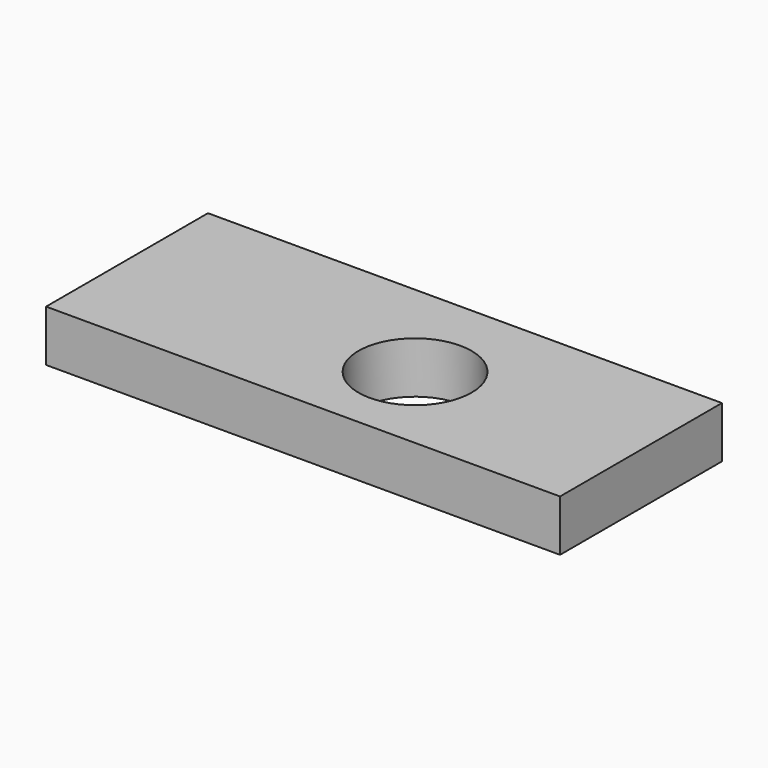
from build123d import *

# Parameters (mm, degrees)
F0_W     = 254
F0_H     = 100
F1_DEPTH = 25.4
F2_W     = 254
F2_H     = 100
F2_R     = 27.9579286296
F3_DEPTH = 25.4
F4_T     = -2.54


with BuildPart() as f1:
    # F0 (on Top) → F1 (new body)
    with BuildSketch(Plane.XY):
        with Locations((127, 50)):
            Rectangle(F0_W, F0_H)
    extrude(amount=F1_DEPTH)

    # F2 (on face) → F3 (intersect)
    with BuildSketch(Plane.XY.offset(25.4)):
        with Locations((127, 50)):
            Rectangle(F2_W, F2_H)
        with Locations((145.1960504055, 46.4161895216)):
            Circle(F2_R, mode=Mode.SUBTRACT)
    extrude(amount=-F3_DEPTH, mode=Mode.INTERSECT)

    # F4
    f4_openings = [f1.faces().sort_by_distance(p)[0] for p in [
        (2.729762, 50, 0),
    ]]
    offset(amount=F4_T, openings=f4_openings)


solid = f1.part
